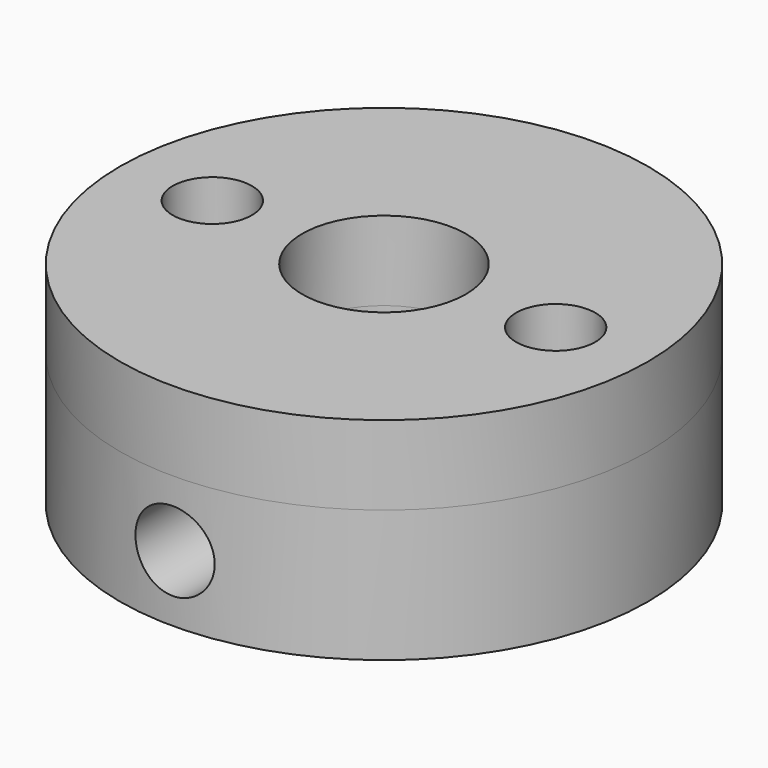
from build123d import *

# Parameters (mm, degrees)
F0_R     = 10
F0_R_2   = 3.1
F1_DEPTH = 2.5
F3_D     = 3
F4_R     = 1.5
F5_DEPTH = 12.5
F6_DEPTH = 3


with BuildPart() as f1:
    # F0 (on Top) → F1 (new body, symmetric)
    with BuildSketch(Plane.XY):
        Circle(F0_R)
        Circle(F0_R_2, mode=Mode.SUBTRACT)
    extrude(amount=F1_DEPTH, both=True)

    # F3 (through all)
    with Locations(Plane.XY.offset(2.5)):
        with Locations((-6.5, 0), (6.5, 0)):
            Hole(F3_D / 2)

    # F4 (on Front) → F5 (cut, symmetric)
    with BuildSketch(Plane.XZ):
        Circle(F4_R)
    extrude(amount=F5_DEPTH, both=True, mode=Mode.SUBTRACT)

    # F6 (add): a face of the model
    f6_faces = [f1.faces().sort_by_distance(p)[0] for p in [
        (-9.7171572875, 0, 2.5),
    ]]
    extrude(f6_faces, amount=F6_DEPTH)


solid = f1.part
